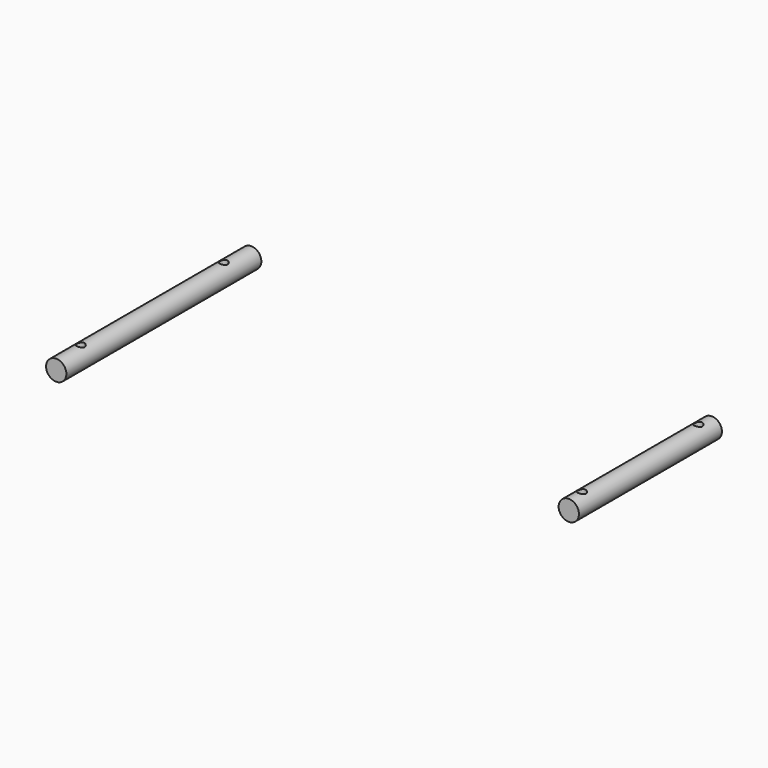
from build123d import *

# Parameters (mm, degrees)
F0_R     = 3.175
F1_DEPTH = 76.2
F2_DEPTH = 55.88
F4_R     = 1.27
F5_DEPTH = 25.4


with BuildPart() as f1:
    # F0 (on Front) → F1 (new body)
    with BuildSketch(Plane.XZ):
        Circle(F0_R)
    extrude(amount=F1_DEPTH)


with BuildPart() as f2:
    # F0 (on Front) → F2 (new body)
    with BuildSketch(Plane.XZ):
        with Locations((143.99133, 0)):
            Circle(F0_R)
    extrude(amount=F2_DEPTH)


with BuildPart() as f5_tool:
    # F4 (on offset) → F5 (new body)
    with BuildSketch(Plane.XY.offset(3.81)):
        with Locations((0, -66.675)):
            Circle(F4_R)
        with Locations((0, -10.795)):
            Circle(F4_R)
        with Locations((143.99133, -50.8)):
            Circle(F4_R)
        with Locations((143.99133, -5.2578)):
            Circle(F4_R)
    extrude(amount=-F5_DEPTH)


with BuildPart() as f1_1:
    add(f1.part)

    # F5: cut by f5_tool
    add(f5_tool.part, mode=Mode.SUBTRACT)


with BuildPart() as f2_1:
    add(f2.part)

    # F5: cut by f5_tool
    add(f5_tool.part, mode=Mode.SUBTRACT)


solid = Compound([f1_1.part, f2_1.part])
